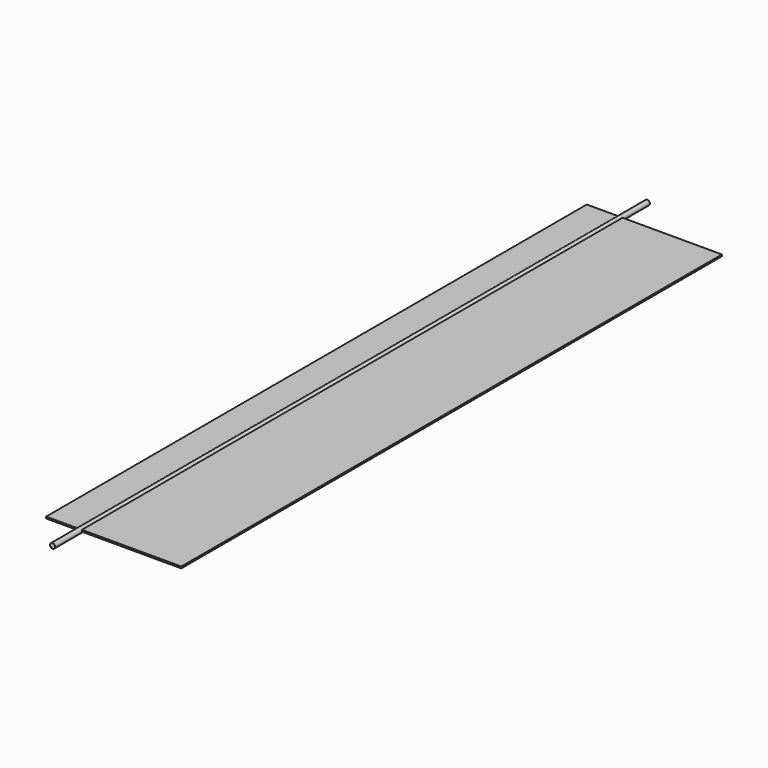
from build123d import *

# Parameters (mm, degrees)
F0_W          = 40
F0_H          = 0.5
F2_DEPTH      = 200
F1_R          = 0.75
F3_DEPTH      = 210
F3_DEPTH_BACK = 10


with BuildPart() as f2:
    # F0 (on Front) → F2 (new body)
    with BuildSketch(Plane.XZ):
        with Locations((23.4047202393, 30.5710838038)):
            Rectangle(F0_W, F0_H)
    extrude(amount=F2_DEPTH)

    # F1 (on face) → F3 (join, two sides)
    with BuildSketch(Plane.XZ) as f3_sk:
        with Locations((13.3300703019, 30.4834730923)):
            Circle(F1_R)
    extrude(amount=F3_DEPTH)
    extrude(f3_sk.sketch, amount=-F3_DEPTH_BACK)


solid = f2.part
